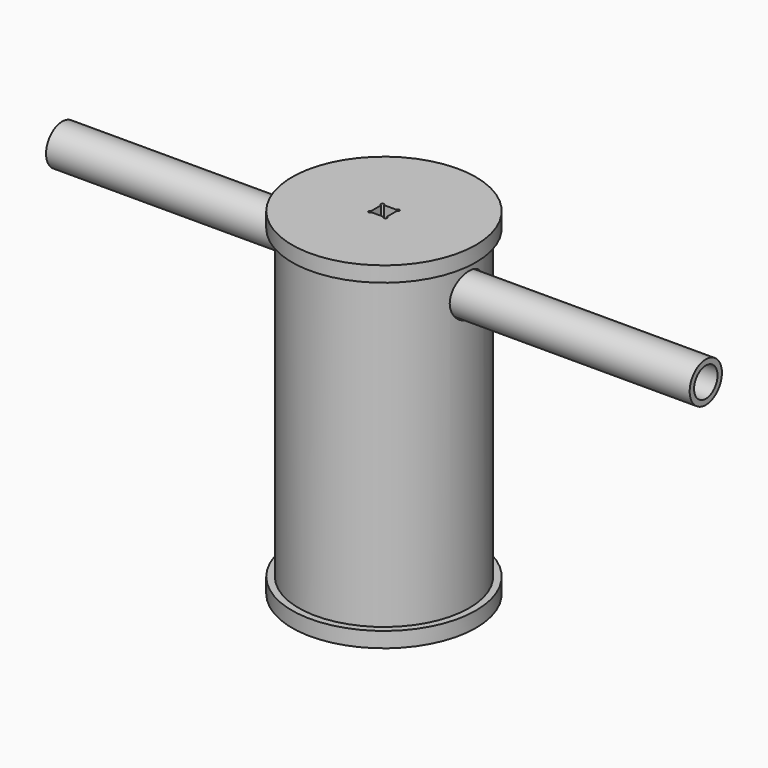
from build123d import *

# Parameters (mm, degrees)
F0_R          = 76.2
F1_DEPTH      = 12.7
F2_R          = 70.6501
F2_R_2        = 64.0969
F3_DEPTH      = 254
F4_R          = 76.2
F5_DEPTH      = 12.7
F6_R          = 17.4625
F7_DEPTH      = 76.201
F7_DEPTH_BACK = 76.201
F8_R          = 16.7005
F8_R_2        = 12.1539
F9_DEPTH      = 266.7


with BuildPart() as f1:
    # F0 (on Top) → F1 (new body)
    with BuildSketch(Plane.XY):
        Circle(F0_R)
        with BuildLine():
            Line((-36.228405637, 42.545), (36.228405637, 42.545))
            ThreePointArc((36.228405637, 42.545), (55.88, 0), (36.228405637, -42.545))
            Line((36.228405637, -42.545), (-36.228405637, -42.545))
            ThreePointArc((-36.228405637, -42.545), (-55.88, 0), (-36.228405637, 42.545))
        make_face(mode=Mode.SUBTRACT)
    extrude(amount=F1_DEPTH)

    # F2 (on face) → F3 (join)
    with BuildSketch(Plane.XY.offset(12.7)):
        Circle(F2_R)
        Circle(F2_R_2, mode=Mode.SUBTRACT)
    extrude(amount=F3_DEPTH)

    # F4 (on face) → F5 (join)
    with BuildSketch(Plane.XY.offset(266.7)):
        Circle(F4_R)
        with BuildLine():
            Line((-5.207, 6.477), (5.207, 6.477))
            ThreePointArc((5.207, 6.477), (7.3750256121, 7.3750256121), (6.477, 5.207))
            Line((6.477, 5.207), (6.477, -5.207))
            ThreePointArc((6.477, -5.207), (7.3750256121, -7.3750256121), (5.207, -6.477))
            Line((5.207, -6.477), (-5.207, -6.477))
            ThreePointArc((-5.207, -6.477), (-7.3750256121, -7.3750256121), (-6.477, -5.207))
            Line((-6.477, -5.207), (-6.477, 5.207))
            ThreePointArc((-6.477, 5.207), (-7.3750256121, 7.3750256121), (-5.207, 6.477))
        make_face(mode=Mode.SUBTRACT)
    extrude(amount=F5_DEPTH)

    # F6 (on Right) → F7 (cut, two sides)
    with BuildSketch(Plane.YZ) as f7_sk:
        with Locations((0, 241.3)):
            Circle(F6_R)
    extrude(amount=-F7_DEPTH, mode=Mode.SUBTRACT)
    extrude(f7_sk.sketch, amount=F7_DEPTH_BACK, mode=Mode.SUBTRACT)


with BuildPart() as f9:
    # F8 (on Right) → F9 (new body, symmetric)
    with BuildSketch(Plane.YZ):
        with Locations((0, 241.3)):
            Circle(F8_R)
        with Locations((0, 241.3)):
            Circle(F8_R_2, mode=Mode.SUBTRACT)
    extrude(amount=F9_DEPTH, both=True)


solid = Compound([f1.part, f9.part])
